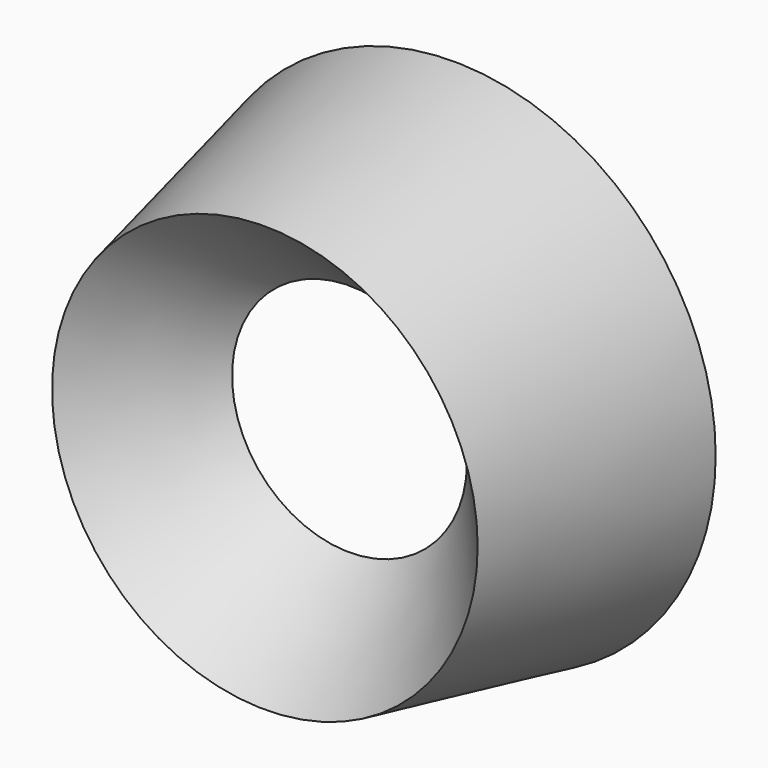
from build123d import *


with BuildPart() as f2:
    # F0 (on Top) → F2 (revolve)
    with BuildSketch(Plane.XY):
        Polygon((26.457129, 23.83868), (11.858654, 10.685009), (21.491693, 0), align=None)
    revolve(axis=Axis((0, 11.91934, 0), (0, 1, 0)))


solid = f2.part
